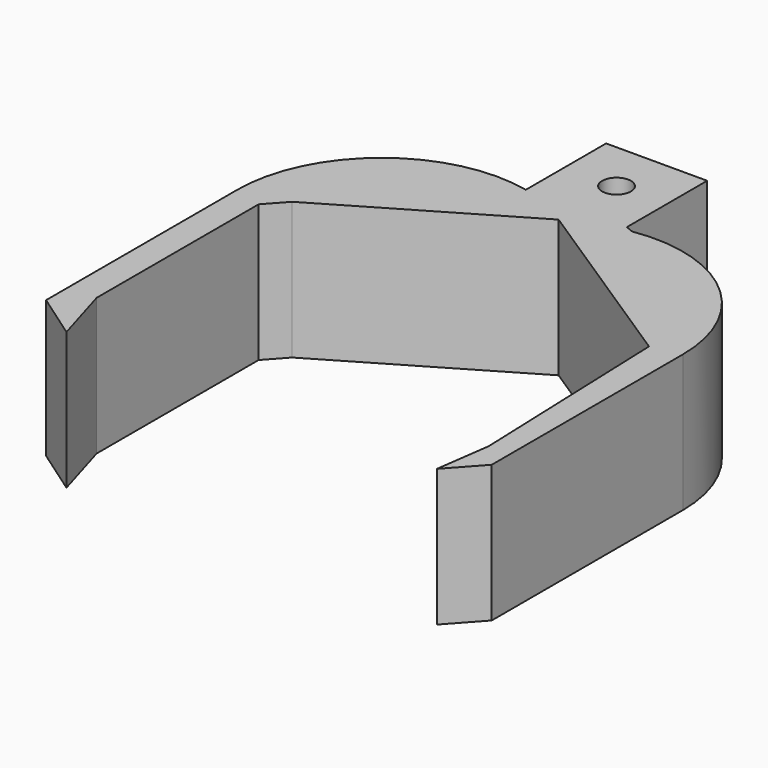
from build123d import *

# Parameters (mm, degrees)
F0_R     = 2.663463
F1_DEPTH = 25.4
F2_DEPTH = 25.4


with BuildPart() as f1:
    # F0 (on Top) → F1 (new body)
    with BuildSketch(Plane.XY):
        with BuildLine():
            ThreePointArc((-9.537551, 54.887395), (-32.102884, 49.673264), (-42.132925, 28.797926))
            Line((-42.132925, 28.797926), (-42.132925, -15.462926))
            Line((-42.132925, -15.462926), (-33.588473, -21.421118))
            Line((-33.588473, -21.421118), (-36.878168, -10.327116))
            Line((-36.878168, -10.327116), (-36.878168, 27.189448))
            Line((-36.878168, 27.189448), (-33.588473, 30.825427))
            Line((-33.588473, 30.825427), (0, 50.559394))
            Line((0, 50.559394), (35.039842, 27.69687))
            Line((35.039842, 27.69687), (36.458459, -11.207074))
            Line((36.458459, -11.207074), (35.039842, -21.421118))
            Line((35.039842, -21.421118), (40.430587, -15.462926))
            Line((40.430587, -15.462926), (40.430587, 28.797926))
            ThreePointArc((40.430587, 28.797926), (31.391675, 48.416927), (10.605718, 54.294944))
            Line((10.605718, 54.294944), (9.183838, 54.887395))
            Line((9.183838, 54.887395), (9.183838, 73.490292))
            Line((9.183838, 73.490292), (-9.537551, 73.490292))
            Line((-9.537551, 73.490292), (-9.537551, 54.887395))
        make_face()
        with Locations((0, 63.979626)):
            Circle(F0_R, mode=Mode.SUBTRACT)
    extrude(amount=F1_DEPTH)

    # F0 (on Top) → F2 (join)
    with BuildSketch(Plane.XY):
        with BuildLine():
            ThreePointArc((-9.537551, 54.887395), (-32.102884, 49.673264), (-42.132925, 28.797926))
            Line((-42.132925, 28.797926), (-42.132925, -15.462926))
            Line((-42.132925, -15.462926), (-33.588473, -21.421118))
            Line((-33.588473, -21.421118), (-36.878168, -10.327116))
            Line((-36.878168, -10.327116), (-36.878168, 27.189448))
            Line((-36.878168, 27.189448), (-33.588473, 30.825427))
            Line((-33.588473, 30.825427), (0, 50.559394))
            Line((0, 50.559394), (35.039842, 27.69687))
            Line((35.039842, 27.69687), (36.458459, -11.207074))
            Line((36.458459, -11.207074), (35.039842, -21.421118))
            Line((35.039842, -21.421118), (40.430587, -15.462926))
            Line((40.430587, -15.462926), (40.430587, 28.797926))
            ThreePointArc((40.430587, 28.797926), (31.391675, 48.416927), (10.605718, 54.294944))
            Line((10.605718, 54.294944), (9.183838, 54.887395))
            Line((9.183838, 54.887395), (9.183838, 73.490292))
            Line((9.183838, 73.490292), (-9.537551, 73.490292))
            Line((-9.537551, 73.490292), (-9.537551, 54.887395))
        make_face()
        with Locations((0, 63.979626)):
            Circle(F0_R, mode=Mode.SUBTRACT)
    extrude(amount=F2_DEPTH)


solid = f1.part
